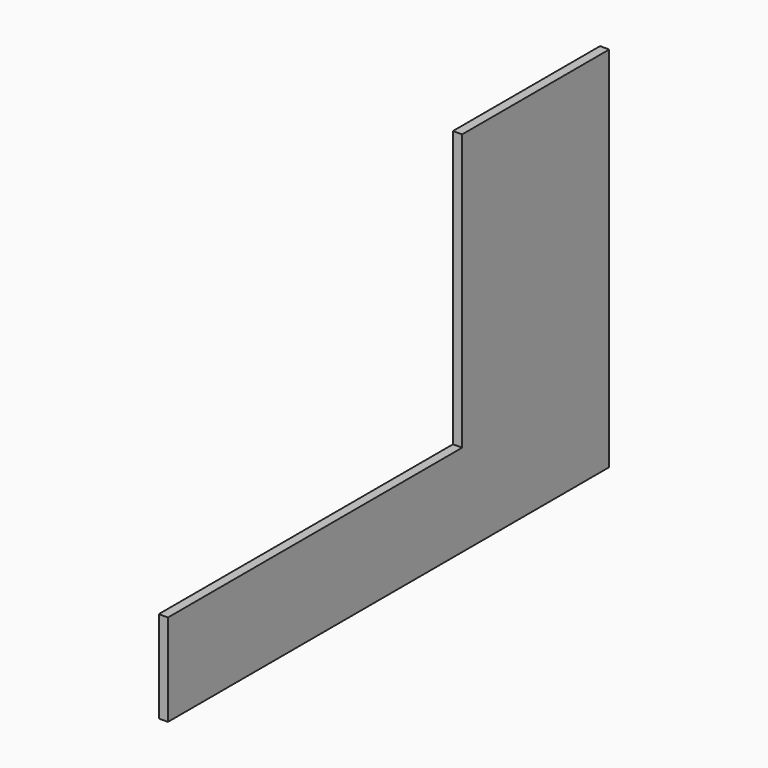
from build123d import *

# Parameters (mm, degrees)
F0_W     = 76.2
F0_H     = 4572
F1_DEPTH = 3048
F2_W     = 3048
F2_H     = 2286
F3_DEPTH = 76.2


with BuildPart() as f1:
    # F0 (on Top) → F1 (new body)
    with BuildSketch(Plane.XY):
        with Locations((-38.1, -2286)):
            Rectangle(F0_W, F0_H)
    extrude(amount=F1_DEPTH)

    # F2 (on face) → F3 (cut, through all)
    with BuildSketch(Plane(origin=(-76.2, 0, 0), x_dir=(0, -1, 0), z_dir=(-1, 0, 0))):
        with Locations((3048, 1905)):
            Rectangle(F2_W, F2_H)
    extrude(amount=-F3_DEPTH, mode=Mode.SUBTRACT)


solid = f1.part
